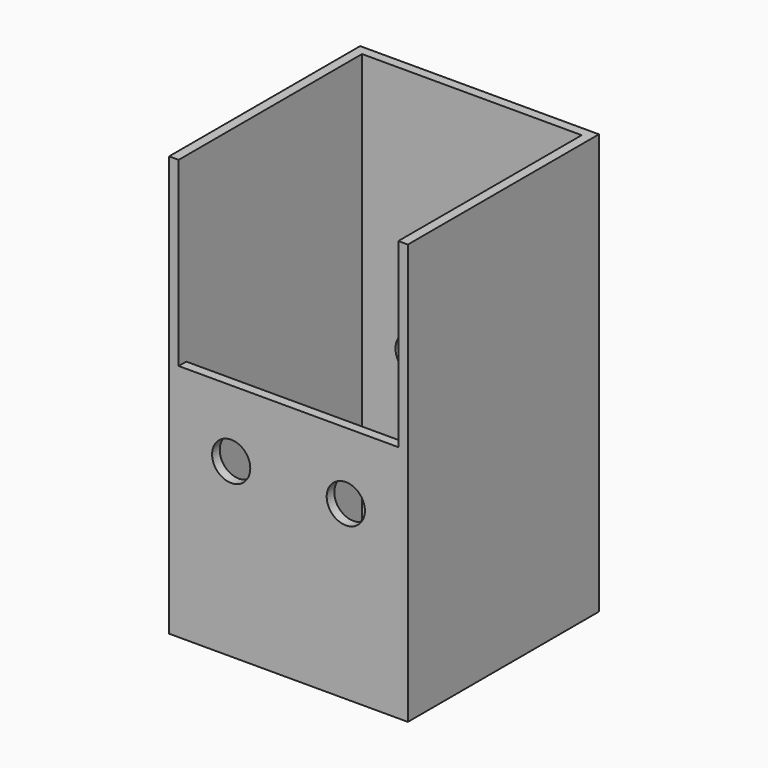
from build123d import *

# Parameters (mm, degrees)
F0_W     = 63.5
F0_H     = 111.76
F1_DEPTH = 63.5
F3_T     = -2.54
F2_W     = 58.42
F2_H     = 48.26
F4_DEPTH = 25.4
F5_R     = 5.08
F6_DEPTH = 254


with BuildPart() as f1:
    # F0 (on Front) → F1 (new body)
    with BuildSketch(Plane.XZ):
        with Locations((0, -24.453788)):
            Rectangle(F0_W, F0_H)
    extrude(amount=-F1_DEPTH)

    # F3
    f3_openings = [f1.faces().sort_by_distance(p)[0] for p in [
        (0, 31.75, 31.426212),
    ]]
    offset(amount=F3_T, openings=f3_openings)

    # F2 (on face) → F4 (cut)
    with BuildSketch(Plane.XZ):
        with Locations((0, 7.296212)):
            Rectangle(F2_W, F2_H)
    extrude(amount=-F4_DEPTH, mode=Mode.SUBTRACT)

    # F5 (on face) → F6 (cut)
    with BuildSketch(Plane.XZ):
        with Locations((-15.24, -34.613788)):
            Circle(F5_R)
        with Locations((15.24, -34.613788)):
            Circle(F5_R)
    extrude(amount=-F6_DEPTH, mode=Mode.SUBTRACT)


solid = f1.part
